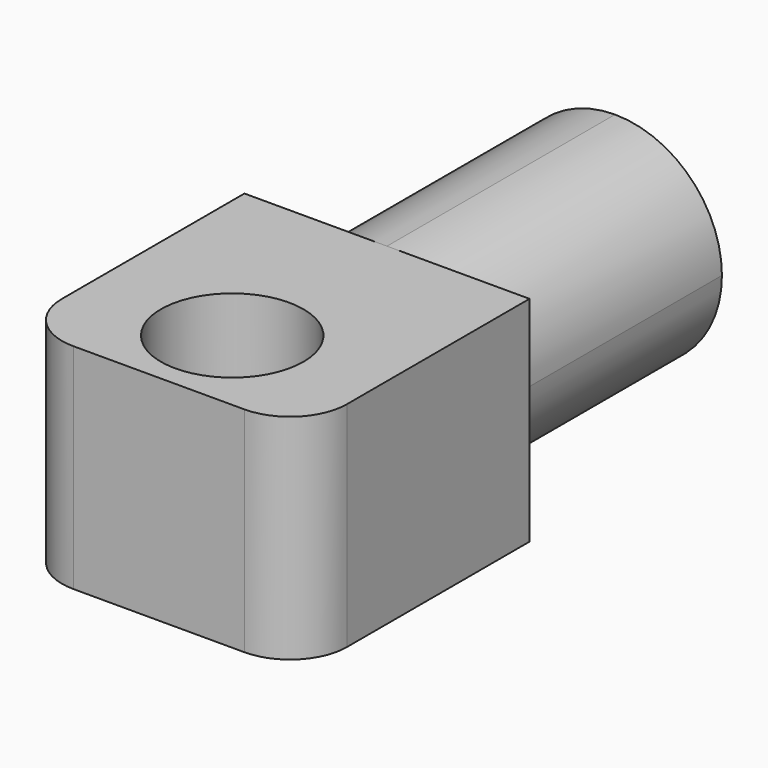
from build123d import *

# Parameters (mm, degrees)
F1_DEPTH = 25.4
F2_DEPTH = 25.4
F3_R     = 6.35
F4_DEPTH = 25.4
F5_R     = 5.08


with BuildPart() as f1:
    # F0 (on Front) → F1 (new body)
    with BuildSketch(Plane.XZ):
        with BuildLine():
            ThreePointArc((0, 9.525), (-9.525, 0), (0, -9.525))
            ThreePointArc((0, -9.525), (6.735192, -6.735192), (9.525, 0))
            ThreePointArc((9.525, 0), (6.735192, 6.735192), (0, 9.525))
        make_face()
    extrude(amount=-F1_DEPTH)

    # F0 (on Front) → F2 (join)
    with BuildSketch(Plane.XZ):
        with BuildLine():
            Line((-12.7, 9.525), (-12.7, -9.525))
            Line((-12.7, -9.525), (0, -9.525))
            ThreePointArc((0, -9.525), (-9.525, 0), (0, 9.525))
            Line((0, 9.525), (-12.7, 9.525))
        make_face()
        with BuildLine():
            ThreePointArc((9.525, 0), (6.735192, -6.735192), (0, -9.525))
            Line((0, -9.525), (12.7, -9.525))
            Line((12.7, -9.525), (12.7, 9.525))
            Line((12.7, 9.525), (0, 9.525))
            ThreePointArc((0, 9.525), (6.735192, 6.735192), (9.525, 0))
        make_face()
        with BuildLine():
            ThreePointArc((0, 9.525), (-9.525, 0), (0, -9.525))
            ThreePointArc((0, -9.525), (6.735192, -6.735192), (9.525, 0))
            ThreePointArc((9.525, 0), (6.735192, 6.735192), (0, 9.525))
        make_face()
    extrude(amount=F2_DEPTH)

    # F3 (on face) → F4 (cut)
    with BuildSketch(Plane.XY.offset(9.525)):
        with Locations((0, -17.237177)):
            Circle(F3_R)
    extrude(amount=-F4_DEPTH, mode=Mode.SUBTRACT)

    # F5
    f5_edges = [f1.edges().sort_by_distance(p)[0] for p in [
        (-12.7, -25.4, 0),
        (12.7, -25.4, 0),
    ]]
    fillet(f5_edges, radius=F5_R)


solid = f1.part
